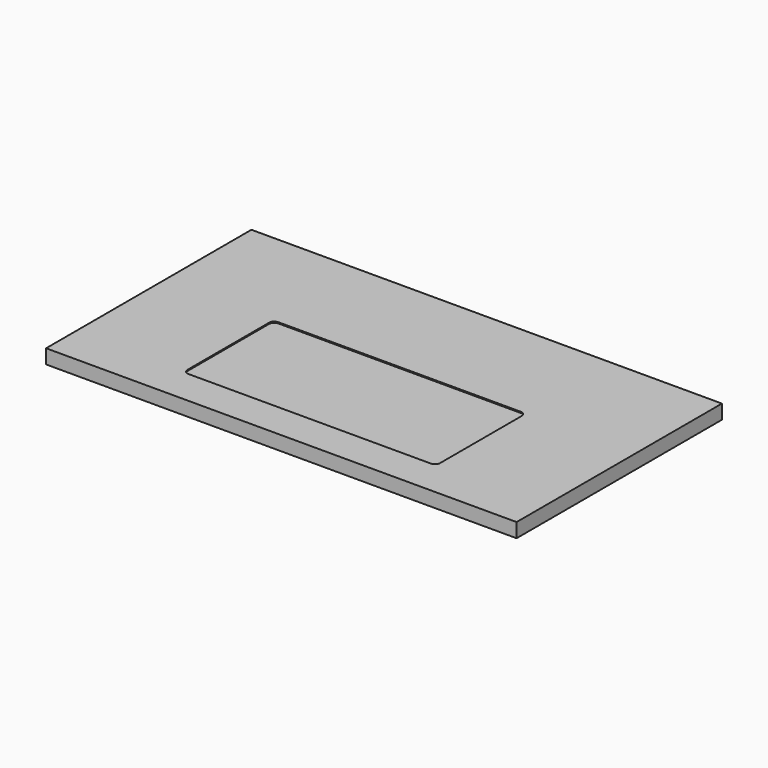
from build123d import *

# Parameters (mm, degrees)
F0_W     = 1676.4
F0_H     = 914.4
F1_DEPTH = 50.8
F3_DEPTH = 3.999992


with BuildPart() as f1:
    # F0 (on Top) → F1 (new body)
    with BuildSketch(Plane.XY):
        Rectangle(F0_W, F0_H)
    extrude(amount=F1_DEPTH)

    # F2 (on face) → F3 (cut)
    with BuildSketch(Plane.XY.offset(50.8)):
        with BuildLine():
            Line((-431.737389, -330.910944), (431.737389, -330.910944))
            ThreePointArc((431.737389, -330.910944), (444.650997, -325.561952), (449.999989, -312.648344))
            Line((449.999989, -312.648344), (449.999989, 50.826418))
            ThreePointArc((449.999989, 50.826418), (444.650997, 63.740026), (431.737389, 69.089018))
            Line((431.737389, 69.089018), (-431.733243, 69.089018))
            ThreePointArc((-431.733243, 69.089018), (-444.649783, 63.738812), (-449.999989, 50.822273))
            Line((-449.999989, 50.822273), (-449.999989, -312.648344))
            ThreePointArc((-449.999989, -312.648344), (-444.650997, -325.561952), (-431.737389, -330.910944))
        make_face()
    extrude(amount=-F3_DEPTH, mode=Mode.SUBTRACT)


solid = f1.part
